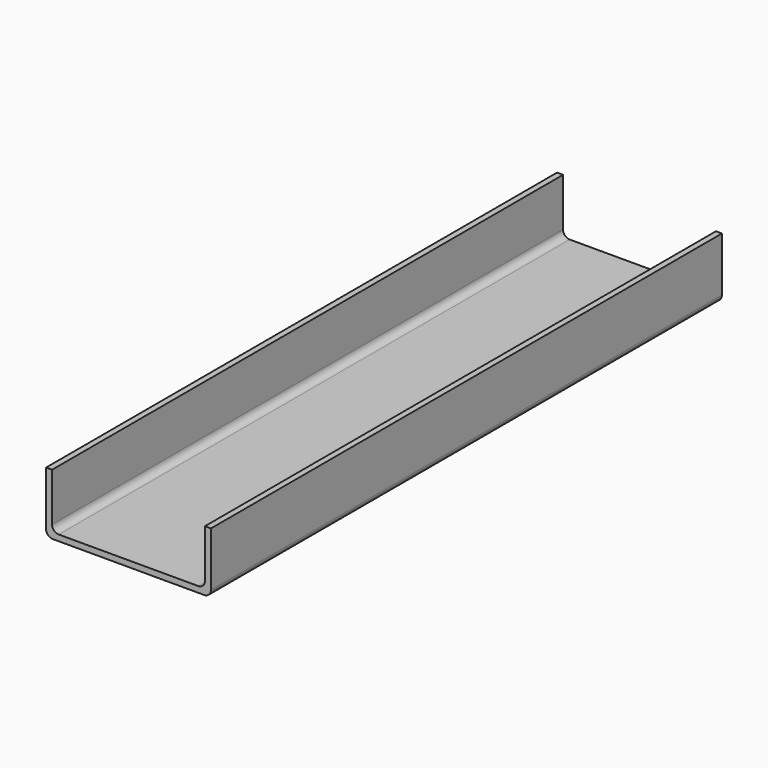
from build123d import *

# Parameters (mm, degrees)
F1_DEPTH = 480.5


with BuildPart() as f1:
    # F0 (on Front) → F1 (new body)
    with BuildSketch(Plane.XZ):
        with BuildLine():
            ThreePointArc((0, 5), (1.464466, 1.464466), (5, 0))
            Line((5, 0), (119, 0))
            ThreePointArc((119, 0), (122.535534, 1.464466), (124, 5))
            Line((124, 5), (124, 45.75))
            Line((124, 45.75), (119.5, 45.75))
            Line((119.5, 45.75), (119.5, 9.5))
            ThreePointArc((119.5, 9.5), (118.035534, 5.964466), (114.5, 4.5))
            Line((114.5, 4.5), (9.5, 4.5))
            ThreePointArc((9.5, 4.5), (5.964466, 5.964466), (4.5, 9.5))
            Line((4.5, 9.5), (4.5, 45.75))
            Line((4.5, 45.75), (0, 45.75))
            Line((0, 45.75), (0, 5))
        make_face()
    extrude(amount=F1_DEPTH)


solid = f1.part
